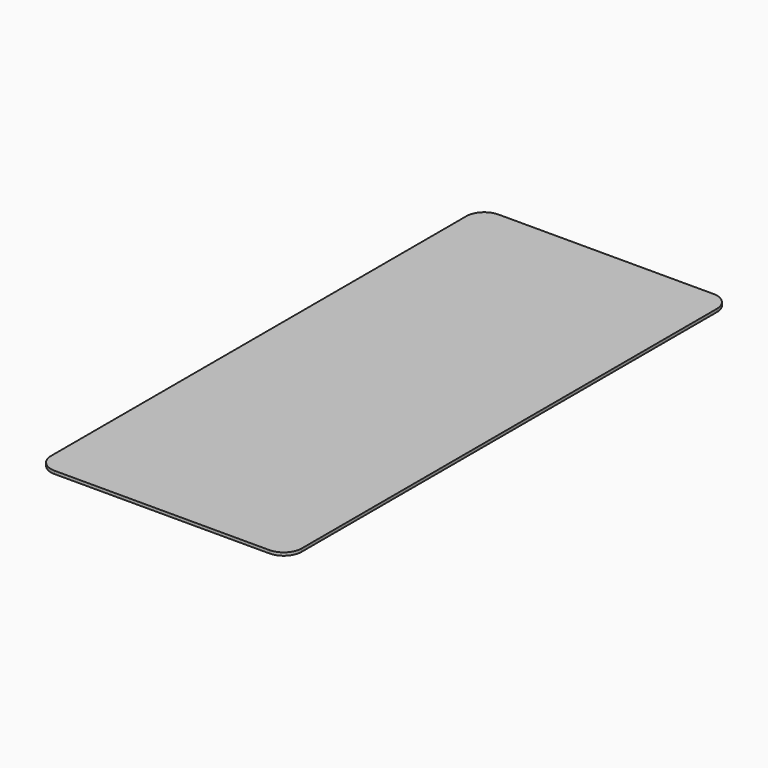
from build123d import *

# Parameters (mm, degrees)
PAD044_DEPTH            = 1
PAD043_DEPTH            = 25
LINEARPATTERN_COUNT     = 4
LINEARPATTERN_PITCH     = 50
BODY028_PLACEMENT_ANGLE = 180


with BuildPart() as part:
    # Sketch114 → Pad044 (new body)
    with BuildSketch(Plane.XY):
        with BuildLine():
            Line((-42, 147), (-42, -27))
            ThreePointArc((-42, -27), (-40.242641, -31.242641), (-36, -33))
            Line((-36, -33), (36, -33))
            ThreePointArc((36, -33), (40.242641, -31.242641), (42, -27))
            Line((42, -27), (42, 147))
            ThreePointArc((42, 147), (40.242641, 151.242641), (36, 153))
            Line((36, 153), (-36, 153))
            ThreePointArc((-36, 153), (-40.242641, 151.242641), (-42, 147))
        make_face()
    extrude(amount=PAD044_DEPTH)

    # Sketch113 → Pad043 (join)
    with BuildSketch(Plane.XZ.offset(28)):
        Polygon((-39, 2.5), (39, 2.5), (39, 0), (38, 0), (37, 0), (37, 1.5), (1, 1.5), (1, 0), (0, 0), (-1, 0), (-1, 1.5), (-37, 1.5), (-37, 0), (-38, 0), (-39, 0), align=None)
    pad043 = extrude(amount=-PAD043_DEPTH)

    # LinearPattern: Pad043 ×4
    with Locations(*[(0, i * LINEARPATTERN_PITCH, 0) for i in range(1, LINEARPATTERN_COUNT)]):
        add(pad043)


with BuildPart() as part_1:
    # Body028 placement: moved
    add(part.part.moved(Location((0, -59, 31))).rotate(Axis((0, -59, 31), (0, 1, 0)), BODY028_PLACEMENT_ANGLE))


solid = part_1.part
